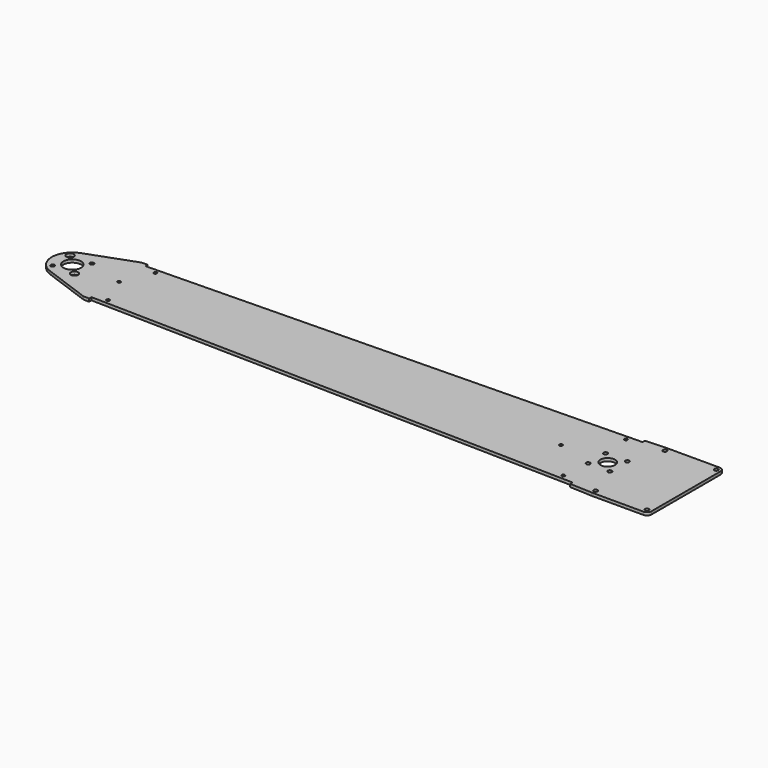
from build123d import *

# Parameters (mm, degrees)
F0_R     = 1.7272
F0_R_2   = 2.15265
F0_R_3   = 3.96875
F0_R_4   = 9.525
F0_R_5   = 7.9375
F1_DEPTH = 3.175
F2_R     = 4.7625


with BuildPart() as f1:
    # F0 (on Top) → F1 (new body)
    with BuildSketch(Plane.XY):
        with BuildLine():
            Line((-537.063671, 39.539974), (-588.318702, 20.884668))
            ThreePointArc((-588.318702, 20.884668), (-602.942304, 0), (-588.318702, -20.884668))
            Line((-588.318702, -20.884668), (-537.063671, -39.539974))
            Line((-537.063671, -39.539974), (-530.715026, -39.671139))
            Line((-530.715026, -39.671139), (-530.649444, -36.496817))
            Line((-530.649444, -36.496817), (-0.098374, -47.458199))
            Line((-0.098374, -47.458199), (-0.163957, -50.632521))
            Line((-0.163957, -50.632521), (24.301577, -51.721828))
            ThreePointArc((24.301577, -51.721828), (24.407469, -51.725363), (24.513413, -51.726541))
            Line((24.513413, -51.726541), (84.952916, -51.726541))
            Line((84.952916, -51.726541), (84.952916, 51.726541))
            Line((84.952916, 51.726541), (24.513413, 51.726541))
            ThreePointArc((24.513413, 51.726541), (24.407469, 51.725363), (24.301577, 51.721828))
            Line((24.301577, 51.721828), (-0.163957, 50.632521))
            Line((-0.163957, 50.632521), (-0.098374, 47.458199))
            Line((-0.098374, 47.458199), (-530.649444, 36.496817))
            Line((-530.649444, 36.496817), (-530.715026, 39.671139))
            Line((-530.715026, 39.671139), (-537.063671, 39.539974))
        make_face()
        with Locations((-516.266618, -32.030455)):
            Circle(F0_R, mode=Mode.SUBTRACT)
        with Locations((-592.503891, -11.786586)):
            Circle(F0_R_2, mode=Mode.SUBTRACT)
        with Locations((-568.930718, -11.786586)):
            Circle(F0_R_3, mode=Mode.SUBTRACT)
        with Locations((-14.284452, -42.401593)):
            Circle(F0_R, mode=Mode.SUBTRACT)
        with Locations((24.513413, -46.964041)):
            Circle(F0_R_2, mode=Mode.SUBTRACT)
        with Locations((80.190416, -46.964041)):
            Circle(F0_R_2, mode=Mode.SUBTRACT)
        with Locations((-11.786586, -11.786586)):
            Circle(F0_R_2, mode=Mode.SUBTRACT)
        with Locations((11.786586, -11.786586)):
            Circle(F0_R_2, mode=Mode.SUBTRACT)
        with Locations((-580.717304, 0)):
            Circle(F0_R_4, mode=Mode.SUBTRACT)
        with Locations((-529.917304, 0)):
            Circle(F0_R, mode=Mode.SUBTRACT)
        with Locations((-592.503891, 11.786586)):
            Circle(F0_R_3, mode=Mode.SUBTRACT)
        with Locations((-568.930718, 11.786586)):
            Circle(F0_R_2, mode=Mode.SUBTRACT)
        with Locations((-516.266618, 32.030455)):
            Circle(F0_R, mode=Mode.SUBTRACT)
        with Locations((-50.8, 0)):
            Circle(F0_R, mode=Mode.SUBTRACT)
        with Locations((-11.786586, 11.786586)):
            Circle(F0_R_2, mode=Mode.SUBTRACT)
        Circle(F0_R_5, mode=Mode.SUBTRACT)
        with Locations((11.786586, 11.786586)):
            Circle(F0_R_2, mode=Mode.SUBTRACT)
        with Locations((-14.284452, 42.401593)):
            Circle(F0_R, mode=Mode.SUBTRACT)
        with Locations((24.513413, 46.964041)):
            Circle(F0_R_2, mode=Mode.SUBTRACT)
        with Locations((80.190416, 46.964041)):
            Circle(F0_R_2, mode=Mode.SUBTRACT)
    extrude(amount=F1_DEPTH)

    # F2
    f2_edges = [f1.edges().sort_by_distance(p)[0] for p in [
        (84.952916, 51.726541, 1.5875),
        (84.952916, -51.726541, 1.5875),
    ]]
    fillet(f2_edges, radius=F2_R)


solid = f1.part
